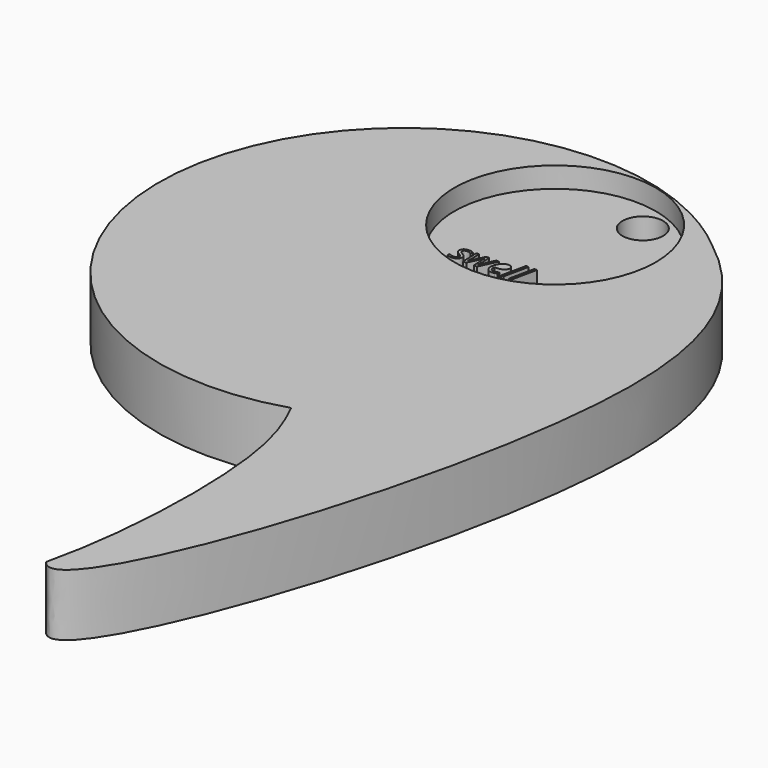
from build123d import *

# Parameters (mm, degrees)
F1_DEPTH = 76.2
F2_R     = 124.1115948674
F2_R_2   = 25.0604291134
F3_DEPTH = 25.4
F4_DEPTH = 76.2010001


with BuildPart() as f1:
    # F0 (on Top) → F1 (new body)
    with BuildSketch(Plane.XY):
        with BuildLine():
            add(Edge.make_bspline(
                [(46.503115952, 556.2205875025), (65.7668212961, 544.7412931299), (85.1253253591, 532.3849536565), (103.636674583, 518.1670188904)],
                knots=[0, 0, 0, 0, 0.0919372013, 0.0919372013, 0.0919372013, 0.0919372013], degree=3))
            ThreePointArc((103.636674583, 518.1670188904), (76.1555034208, 538.8237333012), (46.503115952, 556.2205875025))
        make_face()
        with BuildLine():
            add(Edge.make_bspline(
                [(103.636674583, 518.1670188904), (169.3449126156, 467.6987666499), (322.4804514396, 262.0016746149), (66.7895182617, -466.2360370375), (16.2921920384, -397.6638066205)],
                knots=[0.0919372013, 0.0919372013, 0.0919372013, 0.0919372013, 0.4182792434, 1, 1, 1, 1], degree=3))
            add(Edge.make_bspline(
                [(46.503115952, 556.2205875025), (65.7668212961, 544.7412931299), (85.1253253591, 532.3849536565), (103.636674583, 518.1670188904)],
                knots=[0, 0, 0, 0, 0.0919372013, 0.0919372013, 0.0919372013, 0.0919372013], degree=3))
            ThreePointArc((46.503115952, 556.2205875025), (-391.833140997, 312.8136692104), (0, 0))
            add(Edge.make_bspline(
                [(16.2921920384, -397.6638066205), (40.2802635686, -295.8483907348), (42.9598036421, -99.0477075274), (13.3533048422, -27.0724744672), (0, 0)],
                knots=[0, 0, 0, 0, 0.6326370031, 1, 1, 1, 1], degree=3))
        make_face()
    extrude(amount=F1_DEPTH)

    # F2 (on face) → F3 (cut)
    with BuildSketch(Plane.XY.offset(76.2)):
        with Locations((-39.8917477844, 456.1369303552)):
            Circle(F2_R)
        with BuildLine():
            add(Edge.make_bspline(
                [(-67.7776773232, 349.780344177), (-67.3264645743, 348.81211682), (-67.3264645743, 347.5963491355)],
                knots=[0, 0, 0, 1, 1, 1], degree=2))
            add(Edge.make_bspline(
                [(-67.3264645743, 347.5963491355), (-67.3264645743, 344.5381293931), (-69.4916590846, 342.8241476317)],
                knots=[0, 0, 0, 1, 1, 1], degree=2))
            add(Edge.make_bspline(
                [(-69.4916590846, 342.8241476317), (-71.6568535949, 341.1101658703), (-75.5924314602, 341.1101658703)],
                knots=[0, 0, 0, 1, 1, 1], degree=2))
            add(Edge.make_bspline(
                [(-75.5924314602, 341.1101658703), (-78.901324952, 341.1101658703), (-81.5647335392, 342.463804117)],
                knots=[0, 0, 0, 1, 1, 1], degree=2))
            Line((-81.5647335392, 342.463804117), (-81.5647335392, 345.5596249218))
            add(Edge.make_bspline(
                [(-81.5647335392, 345.5596249218), (-80.1922947613, 344.7386683926), (-78.6067832965, 344.2874556437)],
                knots=[0, 0, 0, 1, 1, 1], degree=2))
            add(Edge.make_bspline(
                [(-78.6067832965, 344.2874556437), (-77.0212718316, 343.8362428948), (-75.667633585, 343.8362428948)],
                knots=[0, 0, 0, 1, 1, 1], degree=2))
            add(Edge.make_bspline(
                [(-75.667633585, 343.8362428948), (-73.2047639973, 343.8362428948), (-71.9513952504, 344.8138705174)],
                knots=[0, 0, 0, 1, 1, 1], degree=2))
            add(Edge.make_bspline(
                [(-71.9513952504, 344.8138705174), (-70.6980265035, 345.79149814), (-70.6980265035, 347.3206080112)],
                knots=[0, 0, 0, 1, 1, 1], degree=2))
            add(Edge.make_bspline(
                [(-70.6980265035, 347.3206080112), (-70.6980265035, 348.436106196), (-71.3811124706, 349.2006611316)],
                knots=[0, 0, 0, 1, 1, 1], degree=2))
            add(Edge.make_bspline(
                [(-71.3811124706, 349.2006611316), (-72.0641984376, 349.9652160672), (-74.3390627133, 351.3000537826)],
                knots=[0, 0, 0, 1, 1, 1], degree=2))
            add(Edge.make_bspline(
                [(-74.3390627133, 351.3000537826), (-76.8834012695, 352.7288941541), (-77.9424978606, 354.0981995101)],
                knots=[0, 0, 0, 1, 1, 1], degree=2))
            add(Edge.make_bspline(
                [(-77.9424978606, 354.0981995101), (-79.0015944518, 355.4675048661), (-79.0015944518, 357.3475579864)],
                knots=[0, 0, 0, 1, 1, 1], degree=2))
            add(Edge.make_bspline(
                [(-79.0015944518, 357.3475579864), (-79.0015944518, 360.048567636), (-77.0212718316, 361.7061478038)],
                knots=[0, 0, 0, 1, 1, 1], degree=2))
            add(Edge.make_bspline(
                [(-77.0212718316, 361.7061478038), (-75.0409492115, 363.3637279716), (-71.8135246883, 363.3637279716)],
                knots=[0, 0, 0, 1, 1, 1], degree=2))
            add(Edge.make_bspline(
                [(-71.8135246883, 363.3637279716), (-68.4607632903, 363.3637279716), (-65.3461419542, 361.9098202252)],
                knots=[0, 0, 0, 1, 1, 1], degree=2))
            Line((-65.3461419542, 361.9098202252), (-66.4052385454, 359.2276111068))
            Line((-66.4052385454, 359.2276111068), (-67.5019361989, 359.7164249181))
            add(Edge.make_bspline(
                [(-67.5019361989, 359.7164249181), (-69.482258819, 360.5624488222), (-71.8135246883, 360.5624488222)],
                knots=[0, 0, 0, 1, 1, 1], degree=2))
            add(Edge.make_bspline(
                [(-71.8135246883, 360.5624488222), (-73.6309093713, 360.5624488222), (-74.6712054312, 359.7101580744)],
                knots=[0, 0, 0, 1, 1, 1], degree=2))
            add(Edge.make_bspline(
                [(-74.6712054312, 359.7101580744), (-75.7115014911, 358.8578673265), (-75.7115014911, 357.5042290798)],
                knots=[0, 0, 0, 1, 1, 1], degree=2))
            add(Edge.make_bspline(
                [(-75.7115014911, 357.5042290798), (-75.7115014911, 356.4075314263), (-75.0158818366, 355.6241759594)],
                knots=[0, 0, 0, 1, 1, 1], degree=2))
            add(Edge.make_bspline(
                [(-75.0158818366, 355.6241759594), (-74.3202621821, 354.8408204926), (-72.1456674062, 353.6062522769)],
                knots=[0, 0, 0, 1, 1, 1], degree=2))
            add(Edge.make_bspline(
                [(-72.1456674062, 353.6062522769), (-70.0462747551, 352.4343524986), (-69.1375824136, 351.5914620163)],
                knots=[0, 0, 0, 1, 1, 1], degree=2))
            add(Edge.make_bspline(
                [(-69.1375824136, 351.5914620163), (-68.2288900721, 350.748571534), (-67.7776773232, 349.780344177)],
                knots=[0, 0, 0, 1, 1, 1], degree=2))
        make_face(mode=Mode.SUBTRACT)
        with BuildLine():
            Line((-44.2519459439, 341.5049770256), (-48.2689927777, 341.5049770256))
            Line((-48.2689927777, 341.5049770256), (-48.8956771511, 353.2929100902))
            add(Edge.make_bspline(
                [(-48.8956771511, 353.2929100902), (-48.9771461197, 355.1353621482), (-48.9771461197, 356.6644720194)],
                knots=[0, 0, 0, 1, 1, 1], degree=2))
            Line((-48.9771461197, 356.6644720194), (-48.9771461197, 359.7164249181))
            Line((-48.9771461197, 359.7164249181), (-49.1526177443, 359.7164249181))
            Line((-49.1526177443, 359.7164249181), (-50.1302453668, 357.4102264238))
            Line((-50.1302453668, 357.4102264238), (-51.7533578941, 353.7065217767))
            Line((-51.7533578941, 353.7065217767), (-57.4561856925, 341.5049770256))
            Line((-57.4561856925, 341.5049770256), (-61.410564089, 341.5049770256))
            Line((-61.410564089, 341.5049770256), (-62.2503211494, 362.9689168163))
            Line((-62.2503211494, 362.9689168163), (-59.0416971573, 362.9689168163))
            Line((-59.0416971573, 362.9689168163), (-58.6907539082, 351.337654845))
            Line((-58.6907539082, 351.337654845), (-58.6907539082, 349.614272818))
            add(Edge.make_bspline(
                [(-58.6907539082, 349.614272818), (-58.6907539082, 346.7315247002), (-58.8474250015, 344.3438572373)],
                knots=[0, 0, 0, 1, 1, 1], degree=2))
            Line((-58.8474250015, 344.3438572373), (-58.7283549706, 344.3438572373))
            add(Edge.make_bspline(
                [(-58.7283549706, 344.3438572373), (-57.8071289416, 346.7753926063), (-56.0461458522, 350.6483020342)],
                knots=[0, 0, 0, 1, 1, 1], degree=2))
            Line((-56.0461458522, 350.6483020342), (-50.268115929, 362.9689168163))
            Line((-50.268115929, 362.9689168163), (-46.7022818441, 362.9689168163))
            Line((-46.7022818441, 362.9689168163), (-45.9753279709, 351.337654845))
            add(Edge.make_bspline(
                [(-45.9753279709, 351.337654845), (-45.8625247836, 348.0475618844), (-45.8625247836, 346.2051098265)],
                knots=[0, 0, 0, 1, 1, 1], degree=2))
            Line((-45.8625247836, 346.2051098265), (-45.8625247836, 345.1648137665))
            Line((-45.8625247836, 345.1648137665), (-45.900125846, 344.3438572373))
            Line((-45.900125846, 344.3438572373), (-45.7810558151, 344.3438572373))
            add(Edge.make_bspline(
                [(-45.7810558151, 344.3438572373), (-45.2358404102, 346.0296382019), (-44.1579432878, 348.624111508)],
                knots=[0, 0, 0, 1, 1, 1], degree=2))
            add(Edge.make_bspline(
                [(-44.1579432878, 348.624111508), (-43.0800461655, 351.2185848141), (-37.828431116, 362.9689168163)],
                knots=[0, 0, 0, 1, 1, 1], degree=2))
            Line((-37.828431116, 362.9689168163), (-34.3440659996, 362.9689168163))
            Line((-34.3440659996, 362.9689168163), (-44.2519459439, 341.5049770256))
        make_face(mode=Mode.SUBTRACT)
        with BuildLine():
            add(Edge.make_bspline(
                [(-23.0449467463, 341.4548422757), (-24.4549865865, 341.1101658703), (-26.1533012386, 341.1101658703)],
                knots=[0, 0, 0, 1, 1, 1], degree=2))
            add(Edge.make_bspline(
                [(-26.1533012386, 341.1101658703), (-29.7567363859, 341.1101658703), (-31.8153945527, 343.2471595838)],
                knots=[0, 0, 0, 1, 1, 1], degree=2))
            add(Edge.make_bspline(
                [(-31.8153945527, 343.2471595838), (-33.8740527195, 345.3841532972), (-33.8740527195, 349.1630600692)],
                knots=[0, 0, 0, 1, 1, 1], degree=2))
            add(Edge.make_bspline(
                [(-33.8740527195, 349.1630600692), (-33.8740527195, 352.8416973413), (-32.4138781294, 356.2226595361)],
                knots=[0, 0, 0, 1, 1, 1], degree=2))
            add(Edge.make_bspline(
                [(-32.4138781294, 356.2226595361), (-30.9537035392, 359.6036217309), (-28.5441021233, 361.4836748512)],
                knots=[0, 0, 0, 1, 1, 1], degree=2))
            add(Edge.make_bspline(
                [(-28.5441021233, 361.4836748512), (-26.1345007074, 363.3637279716), (-23.239218902, 363.3637279716)],
                knots=[0, 0, 0, 1, 1, 1], degree=2))
            add(Edge.make_bspline(
                [(-23.239218902, 363.3637279716), (-20.2436675969, 363.3637279716), (-18.7333582569, 362.0602244748)],
                knots=[0, 0, 0, 1, 1, 1], degree=2))
            add(Edge.make_bspline(
                [(-18.7333582569, 362.0602244748), (-17.2230489169, 360.756720978), (-17.2230489169, 358.4254551088)],
                knots=[0, 0, 0, 1, 1, 1], degree=2))
            add(Edge.make_bspline(
                [(-17.2230489169, 358.4254551088), (-17.2230489169, 354.90348893), (-20.4755408151, 352.8949655131)],
                knots=[0, 0, 0, 1, 1, 1], degree=2))
            add(Edge.make_bspline(
                [(-20.4755408151, 352.8949655131), (-23.7280327133, 350.8864420962), (-29.7818037609, 350.8864420962)],
                knots=[0, 0, 0, 1, 1, 1], degree=2))
            Line((-29.7818037609, 350.8864420962), (-30.4272886655, 350.8864420962))
            Line((-30.4272886655, 350.8864420962), (-30.5024907903, 349.3197311625))
            add(Edge.make_bspline(
                [(-30.5024907903, 349.3197311625), (-30.5024907903, 346.7565920751), (-29.2992567933, 345.3152180162)],
                knots=[0, 0, 0, 1, 1, 1], degree=2))
            add(Edge.make_bspline(
                [(-29.2992567933, 345.3152180162), (-28.0960227963, 343.8738439572), (-25.5704847713, 343.8738439572)],
                knots=[0, 0, 0, 1, 1, 1], degree=2))
            add(Edge.make_bspline(
                [(-25.5704847713, 343.8738439572), (-24.3359165556, 343.8738439572), (-23.0324130588, 344.2279206282)],
                knots=[0, 0, 0, 1, 1, 1], degree=2))
            add(Edge.make_bspline(
                [(-23.0324130588, 344.2279206282), (-21.728909562, 344.5819972992), (-19.792454848, 345.5220238594)],
                knots=[0, 0, 0, 1, 1, 1], degree=2))
            Line((-19.792454848, 345.5220238594), (-19.792454848, 342.6580762727))
            add(Edge.make_bspline(
                [(-19.792454848, 342.6580762727), (-21.634906906, 341.7995186811), (-23.0449467463, 341.4548422757)],
                knots=[0, 0, 0, 1, 1, 1], degree=2))
        make_face(mode=Mode.SUBTRACT)
        Polygon((-5.1029731343, 371.9806381065), (-11.6079569308, 341.5049770256), (-14.8980498914, 341.5049770256), (-8.393066095, 371.9806381065), align=None, mode=Mode.SUBTRACT)
        Polygon((5.0806479342, 371.9806381065), (-1.4243358622, 341.5049770256), (-4.7144288228, 341.5049770256), (1.7905549736, 371.9806381065), align=None, mode=Mode.SUBTRACT)
        with Locations((0, 541.3113636543)):
            Circle(F2_R_2, mode=Mode.SUBTRACT)
        with Locations((0, 541.3113636543)):
            Circle(F2_R_2)
    extrude(amount=-F3_DEPTH, mode=Mode.SUBTRACT)

    # F2 (on face) → F4 (cut, through all)
    with BuildSketch(Plane.XY.offset(76.2)):
        with Locations((0, 541.3113636543)):
            Circle(F2_R_2)
    extrude(amount=-F4_DEPTH, mode=Mode.SUBTRACT)


solid = f1.part
